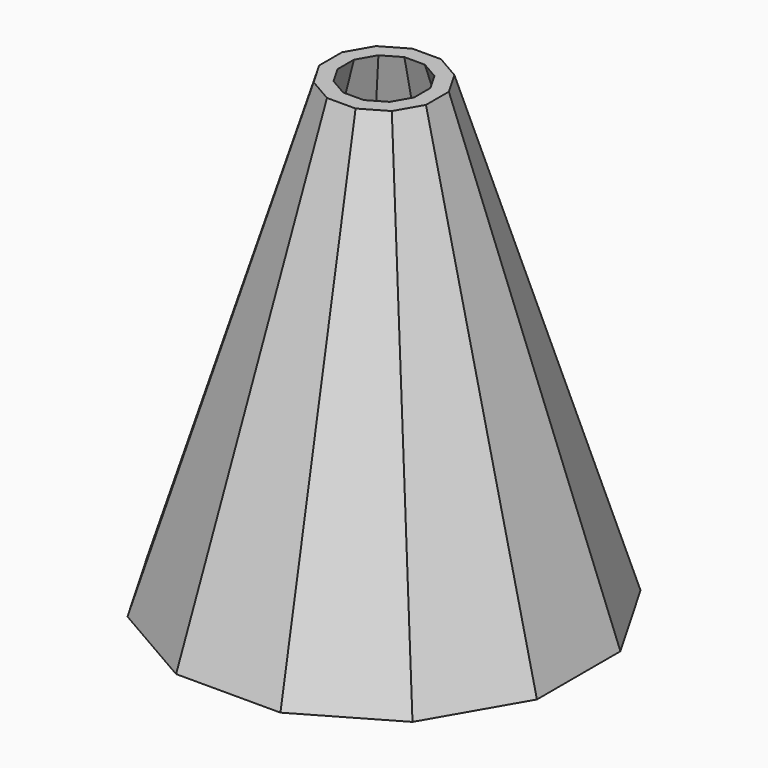
from build123d import *

# Parameters (mm, degrees)
F2_DEPTH = 800
F2_TAPER = 17
F3_T     = 25
F5_DEPTH = 25


with BuildPart() as f2:
    # F0 (on Top) → F2 (new body)
    with BuildSketch(Plane.XY):
        Polygon((-310.8845726812, 83.3012701892), (-310.8845726812, -83.3012701892), (-227.583302492, -227.583302492), (-83.3012701892, -310.8845726812), (83.3012701892, -310.8845726812), (227.583302492, -227.583302492), (310.8845726812, -83.3012701892), (310.8845726812, 83.3012701892), (227.583302492, 227.583302492), (83.3012701892, 310.8845726812), (-83.3012701892, 310.8845726812), (-227.583302492, 227.583302492), align=None)
    extrude(amount=F2_DEPTH, taper=F2_TAPER)

    # F3
    f3_openings = [f2.faces().sort_by_distance(p)[0] for p in [
        (0, 0, 0),
    ]]
    offset(amount=F3_T, openings=f3_openings, kind=Kind.INTERSECTION)

    # F4 (on offset) → F5 (cut)
    with BuildSketch(Plane.XY.offset(800)):
        Polygon((93.3012701892, -25), (93.3012701892, 25), (68.3012701892, 68.3012701892), (25, 93.3012701892), (-25, 93.3012701892), (-68.3012701892, 68.3012701892), (-93.3012701892, 25), (-93.3012701892, -25), (-68.3012701892, -68.3012701892), (-25, -93.3012701892), (25, -93.3012701892), (68.3012701892, -68.3012701892), align=None)
    extrude(amount=F5_DEPTH, mode=Mode.SUBTRACT)


solid = f2.part
